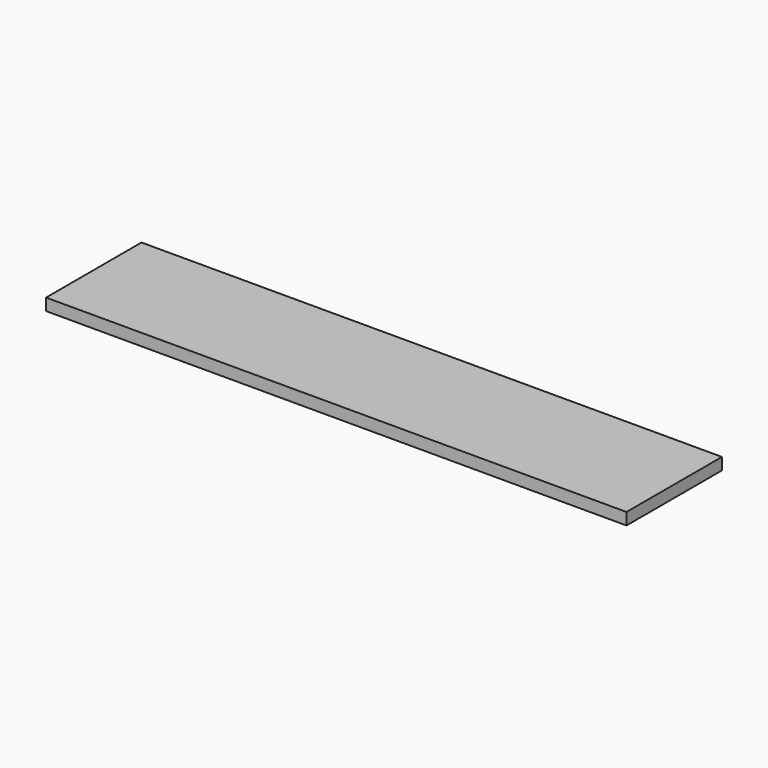
from build123d import *

# Parameters (mm, degrees)
CYLINDER013_R     = 2
CYLINDER013_DEPTH = 140
BOX018_W          = 146
BOX018_H          = 30
BOX018_DEPTH      = 3


with BuildPart() as cilindro012:
    # Cylinder013 → Cylinder013 (new body)
    with BuildSketch(Plane(origin=(5, 404.5, 97), x_dir=(0, 0, -1), z_dir=(1, 0, 0))):
        Circle(CYLINDER013_R)
    extrude(amount=CYLINDER013_DEPTH)


with BuildPart() as fusion014006:
    # Box018 → Box018 (new body)
    with BuildSketch(Plane(origin=(2, 390, 96.5), x_dir=(1, 0, 0), z_dir=(0, 0, 1))):
        with Locations((73, 15)):
            Rectangle(BOX018_W, BOX018_H)
    extrude(amount=BOX018_DEPTH)

    # Fusion014006: union Cilindro012
    add(cilindro012.part)


solid = fusion014006.part
